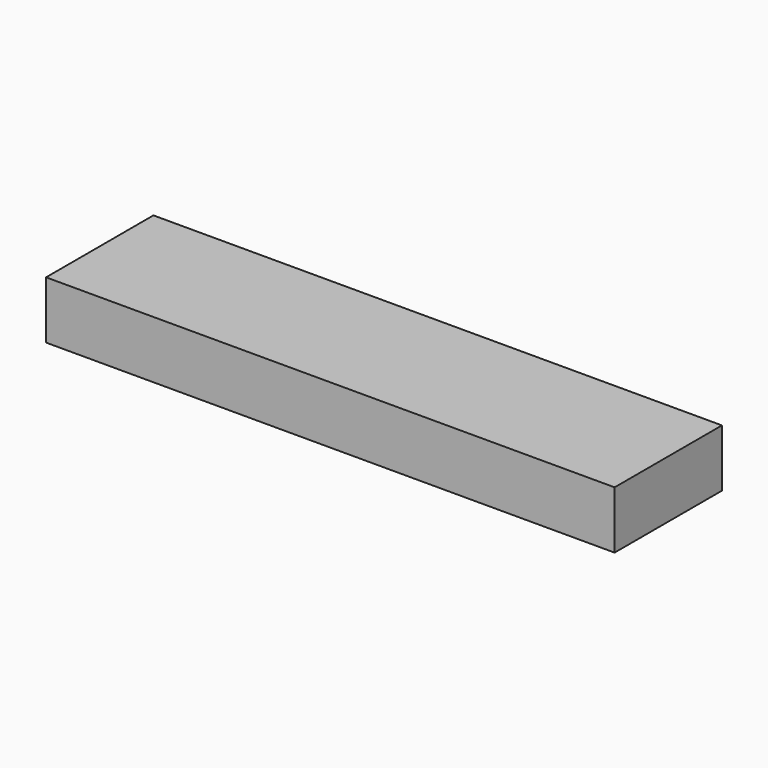
from build123d import *

# Parameters (mm, degrees)
BOX_W     = 445
BOX_H     = 105
BOX_DEPTH = 45


with BuildPart() as part:
    # Box → Box (new body)
    with BuildSketch(Plane.XY):
        with Locations((222.5, 52.5)):
            Rectangle(BOX_W, BOX_H)
    extrude(amount=BOX_DEPTH)


solid = part.part
